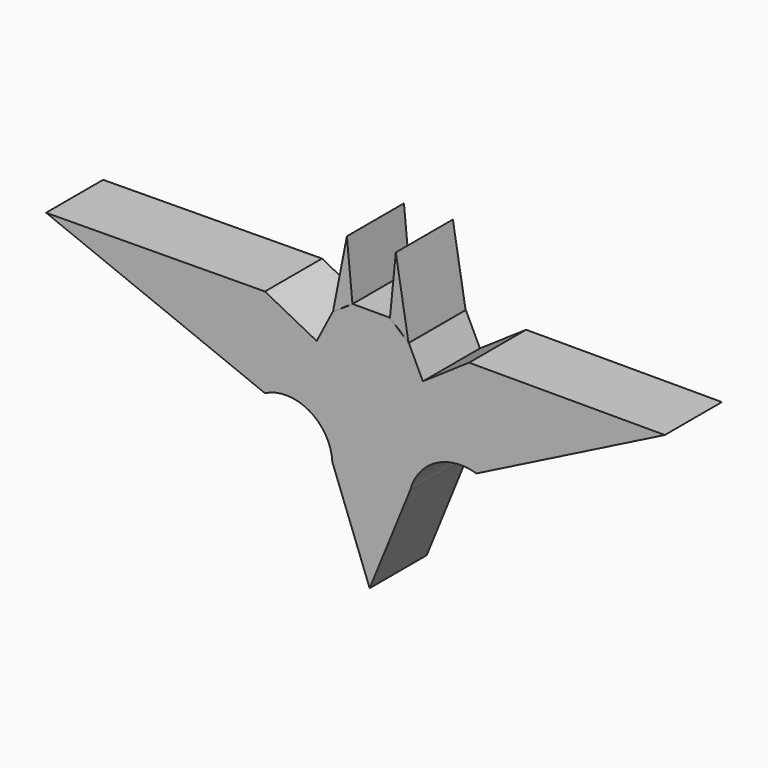
from build123d import *

# Parameters (mm, degrees)
F1_DEPTH = 25.4
F3_DEPTH = 25.4


with BuildPart() as f1:
    # F0 (on Front) → F1 (new body)
    with BuildSketch(Plane.XZ):
        with BuildLine():
            ThreePointArc((7.184479, 51.398275), (11.089227, 48.724993), (14.038248, 45.024078))
            Line((14.038248, 45.024078), (9.31441, 73.071867))
            Line((9.31441, 73.071867), (7.184479, 51.398275))
        make_face()
        with BuildLine():
            ThreePointArc((-13.419058, 45.319319), (-10.259033, 49.072332), (-6.108171, 51.687902))
            Line((-6.108171, 51.687902), (-8.104741, 72.481386))
            Line((-8.104741, 72.481386), (-13.419058, 45.319319))
        make_face()
    extrude(amount=F1_DEPTH)


with BuildPart() as f3:
    # F2 (on Front) → F3 (new body)
    with BuildSketch(Plane.XZ):
        with BuildLine():
            Line((-18.861616, 36.135152), (-37.277386, 45.671888))
            Line((-37.277386, 45.671888), (-115.215555, 45.014184))
            Line((-115.215555, 45.014184), (-37.277386, 13.773144))
            ThreePointArc((-37.277386, 13.773144), (-21.520221, 13.429758), (-13.271114, 0))
            Line((-13.271114, 0), (0, -35.225961))
            Line((0, -35.225961), (14.352543, 0))
            ThreePointArc((14.352543, 0), (23.389676, 11.61543), (38.029961, 13.115439))
            Line((38.029961, 13.115439), (105.115987, 46.987299))
            Line((105.115987, 46.987299), (35.399139, 46.987299))
            Line((35.399139, 46.987299), (18.956486, 35.806298))
            Line((18.956486, 35.806298), (14.02369, 46.000745))
            Line((14.02369, 46.000745), (7.117776, 51.920101))
            Line((7.117776, 51.920101), (-6.036345, 51.920101))
            Line((-6.036345, 51.920101), (-13.238371, 46.993834))
            Line((-13.238371, 46.993834), (-18.861616, 36.135152))
        make_face()
    extrude(amount=F3_DEPTH)


solid = Compound([f1.part, f3.part])
